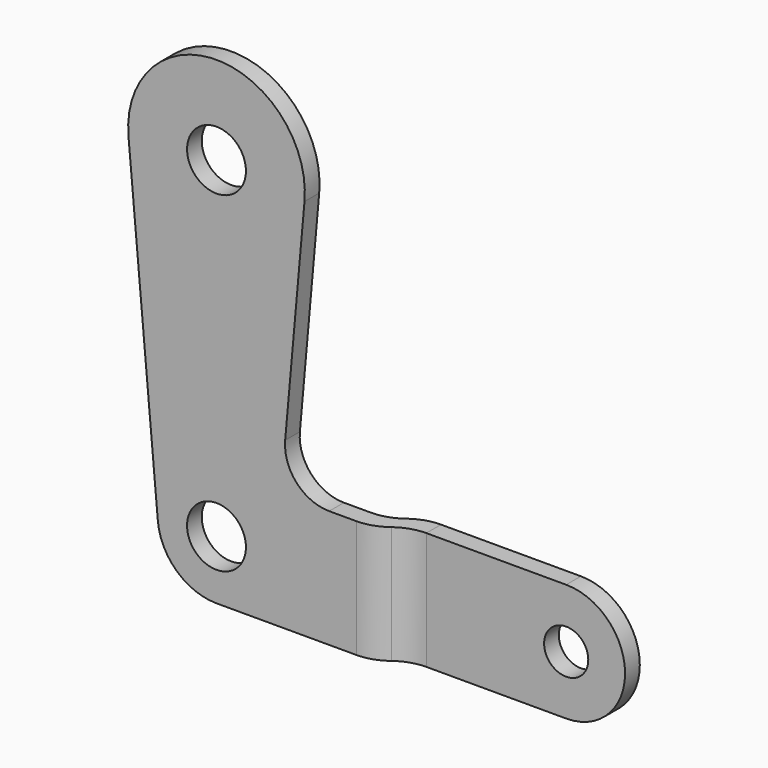
from build123d import *

# Parameters (mm, degrees)
F0_R     = 4
F1_DEPTH = 2.5
F3_DEPTH = 8
F5_R     = 3
F6_DEPTH = 2.5


with BuildPart() as f1:
    # F0 (on Front) → F1 (new body)
    with BuildSketch(Plane.XZ):
        with BuildLine():
            ThreePointArc((-7.9683323844, -0.7111111111), (-5.3995884617, -5.902918299), (0, -8))
            Line((0, -8), (19, -8))
            Line((19, -8), (19, 8))
            Line((19, 8), (15.3050286651, 8))
            ThreePointArc((15.3050286651, 8), (10.8778399408, 9.9503086537), (9.3287793768, 14.5333333333))
            Line((9.3287793768, 14.5333333333), (11.9524985765, 43.9333333333))
            ThreePointArc((11.9524985765, 43.9333333333), (0, 57), (-11.9524985765, 43.9333333333))
            Line((-11.9524985765, 43.9333333333), (-7.9683323844, -0.7111111111))
        make_face()
        Circle(F0_R, mode=Mode.SUBTRACT)
        with Locations((0, 45)):
            Circle(F0_R, mode=Mode.SUBTRACT)
    extrude(amount=F1_DEPTH)

    # F2 (on Top) → F3 (join, symmetric)
    with BuildSketch(Plane.XY):
        with BuildLine():
            Line((19, 0), (19, -2.5))
            ThreePointArc((19, -2.5), (20.9764235376, -2.1792706128), (22.75, -1.25))
            ThreePointArc((22.75, -1.25), (24.5235764624, -0.3207293872), (26.5, 0))
            Line((26.5, 0), (26.5, 2.5))
            ThreePointArc((26.5, 2.5), (24.5235764624, 2.1792706128), (22.75, 1.25))
            ThreePointArc((22.75, 1.25), (20.9764235376, 0.3207293872), (19, 0))
        make_face()
    extrude(amount=F3_DEPTH, both=True)


with BuildPart() as f6:
    # F5 (on offset) → F6 (new body)
    with BuildSketch(Plane.XZ.offset(-2.5)):
        with BuildLine():
            Line((26.5, 8), (26.5, -8))
            Line((26.5, -8), (45.5, -8))
            ThreePointArc((45.5, -8), (53.5, 0), (45.5, 8))
            Line((45.5, 8), (26.5, 8))
        make_face()
        with Locations((45.5, 0)):
            Circle(F5_R, mode=Mode.SUBTRACT)
        with BuildLine():
            Line((26.5, 8), (26.5, -8))
            Line((26.5, -8), (45.5, -8))
            ThreePointArc((45.5, -8), (53.5, 0), (45.5, 8))
            Line((45.5, 8), (26.5, 8))
        make_face()
        with Locations((45.5, 0)):
            Circle(F5_R, mode=Mode.SUBTRACT)
    extrude(amount=F6_DEPTH)


solid = Compound([f1.part, f6.part])
